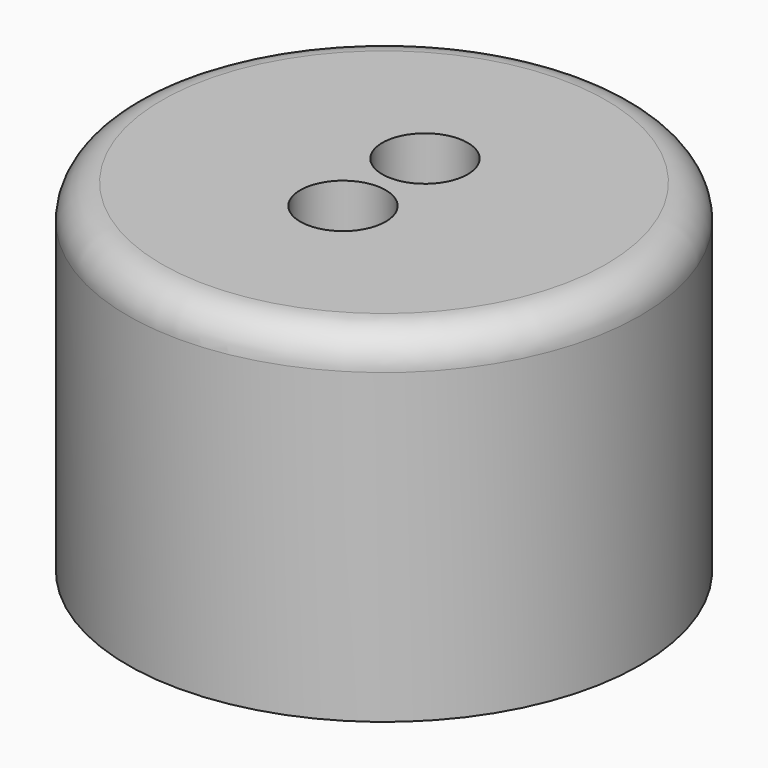
from build123d import *

# Parameters (mm, degrees)
F0_R     = 38.1
F1_DEPTH = 50.8
F2_R     = 6.35
F3_DEPTH = 70.612
F4_R     = 5.08


with BuildPart() as f1:
    # F0 (on Top) → F1 (new body)
    with BuildSketch(Plane.XY):
        Circle(F0_R)
    extrude(amount=F1_DEPTH)

    # F2 (on face) → F3 (cut)
    with BuildSketch(Plane.XY.offset(50.8)):
        with Locations((0, 7.62)):
            Circle(F2_R)
        with Locations((0, -7.62)):
            Circle(F2_R)
    extrude(amount=-F3_DEPTH, mode=Mode.SUBTRACT)

    # F4
    f4_edges = [f1.edges().sort_by_distance(p)[0] for p in [
        (-38.1, 0, 50.8),
    ]]
    fillet(f4_edges, radius=F4_R)


solid = f1.part
